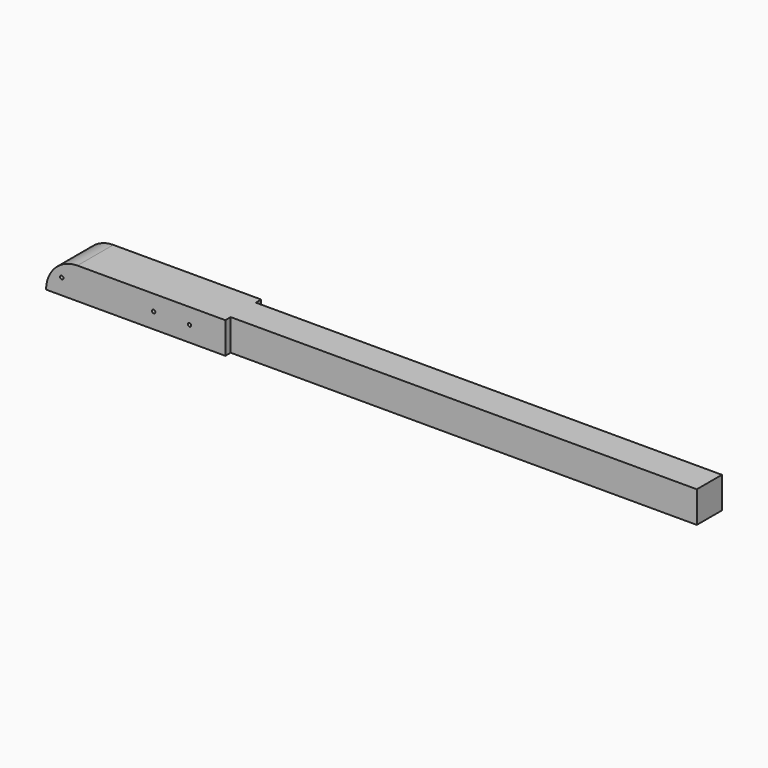
from build123d import *

# Parameters (mm, degrees)
F1_DEPTH = 88.9
F2_R     = 4.7625
F3_DEPTH = 127.001
F5_DEPTH = 127.001


with BuildPart() as f1:
    # F0 (on Top) → F1 (new body)
    with BuildSketch(Plane.XY):
        Polygon((508, -63.5), (508, -44.45), (1828.8, -44.45), (1828.8, 44.45), (508, 44.45), (508, 63.5), (0, 63.5), (0, 44.45), (0, -44.45), (0, -63.5), align=None)
    extrude(amount=F1_DEPTH)

    # F2 (on face) → F3 (cut, through all)
    with BuildSketch(Plane.XZ.offset(63.5)):
        with Locations((44.45, 44.45)):
            Circle(F2_R)
        with Locations((304.8, 44.45)):
            Circle(F2_R)
        with Locations((406.4, 44.45)):
            Circle(F2_R)
    extrude(amount=-F3_DEPTH, mode=Mode.SUBTRACT)

    # F4 (on face) → F5 (cut, through all)
    with BuildSketch(Plane.XZ.offset(63.5)):
        with BuildLine():
            ThreePointArc((0, 0), (26.038207, 62.861793), (88.9, 88.9))
            Line((88.9, 88.9), (0, 88.9))
            Line((0, 88.9), (0, 0))
        make_face()
    extrude(amount=-F5_DEPTH, mode=Mode.SUBTRACT)


solid = f1.part
